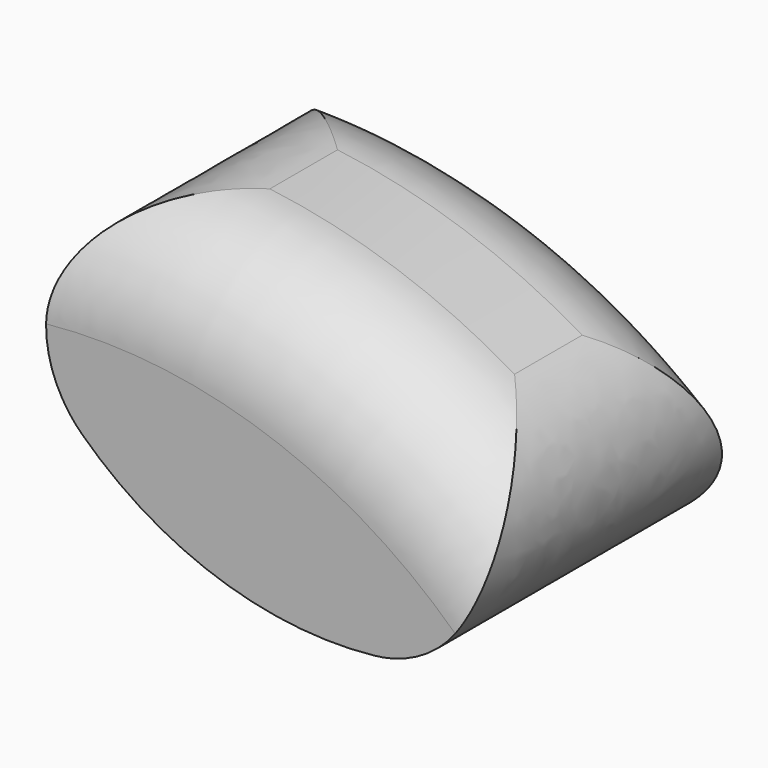
from build123d import *

# Parameters (mm, degrees)
F1_DEPTH = 25.4
F2_R     = 9.314748508


with BuildPart() as f1:
    # F0 (on Front) → F1 (new body)
    with BuildSketch(Plane.XZ):
        with BuildLine():
            ThreePointArc((-9.7867649186, 49.9482152801), (9.542013007, 27.9498280552), (38.2879661491, 33.5356023564))
            ThreePointArc((38.2879661491, 33.5356023564), (16.444545711, 48.1682664583), (-9.7867649186, 49.9482152801))
        make_face()
    extrude(amount=F1_DEPTH)

    # F2
    f2_edges = [f1.edges().sort_by_distance(p)[0] for p in [
        (38.287966, -12.7, 33.535602),
        (-9.786765, -12.7, 49.948215),
        (16.444546, 0, 48.168266),
        (16.444546, -25.4, 48.168266),
    ]]
    fillet(f2_edges, radius=F2_R)


solid = f1.part
